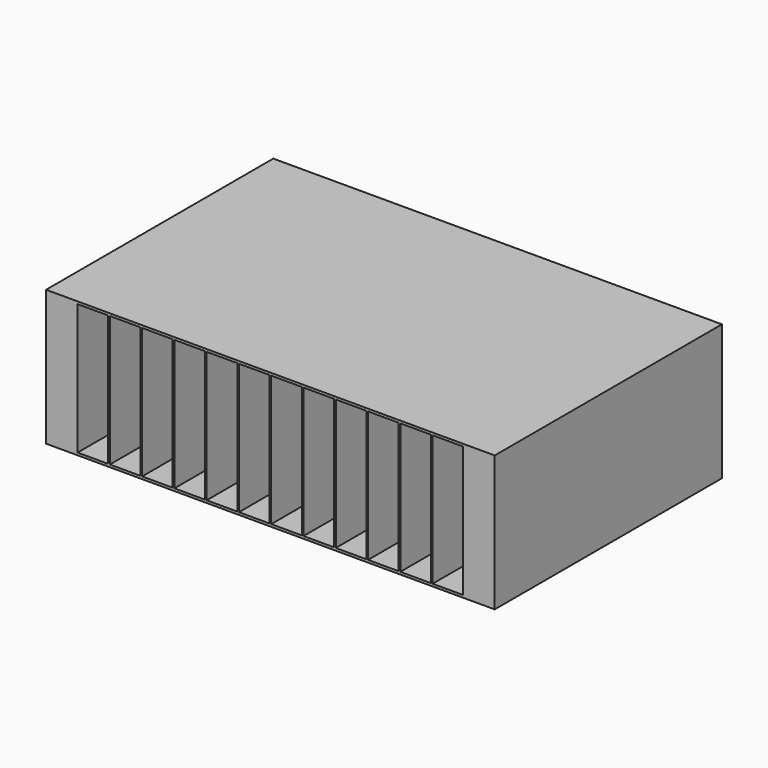
from build123d import *

# Parameters (mm, degrees)
F0_W     = 441.325
F0_H     = 133.35
F0_W_2   = 30.099
F0_H_2   = 128.5748
F1_DEPTH = 279.4


with BuildPart() as f1:
    # F0 (on Front) → F1 (new body)
    with BuildSketch(Plane.XZ):
        Rectangle(F0_W, F0_H)
        with Locations((-174.625, -2e-06)):
            Rectangle(F0_W_2, F0_H_2, mode=Mode.SUBTRACT)
        with Locations((-142.875, -2e-06)):
            Rectangle(F0_W_2, F0_H_2, mode=Mode.SUBTRACT)
        with Locations((-111.125, -2e-06)):
            Rectangle(F0_W_2, F0_H_2, mode=Mode.SUBTRACT)
        with Locations((-79.375, -2e-06)):
            Rectangle(F0_W_2, F0_H_2, mode=Mode.SUBTRACT)
        with Locations((-47.625, -2e-06)):
            Rectangle(F0_W_2, F0_H_2, mode=Mode.SUBTRACT)
        with Locations((-15.875, -2e-06)):
            Rectangle(F0_W_2, F0_H_2, mode=Mode.SUBTRACT)
        with Locations((15.875, -2e-06)):
            Rectangle(F0_W_2, F0_H_2, mode=Mode.SUBTRACT)
        with Locations((47.625, -2e-06)):
            Rectangle(F0_W_2, F0_H_2, mode=Mode.SUBTRACT)
        with Locations((79.375, -2e-06)):
            Rectangle(F0_W_2, F0_H_2, mode=Mode.SUBTRACT)
        with Locations((111.125, -2e-06)):
            Rectangle(F0_W_2, F0_H_2, mode=Mode.SUBTRACT)
        with Locations((142.875, -2e-06)):
            Rectangle(F0_W_2, F0_H_2, mode=Mode.SUBTRACT)
        with Locations((174.625, -2e-06)):
            Rectangle(F0_W_2, F0_H_2, mode=Mode.SUBTRACT)
    extrude(amount=-F1_DEPTH)


solid = f1.part
